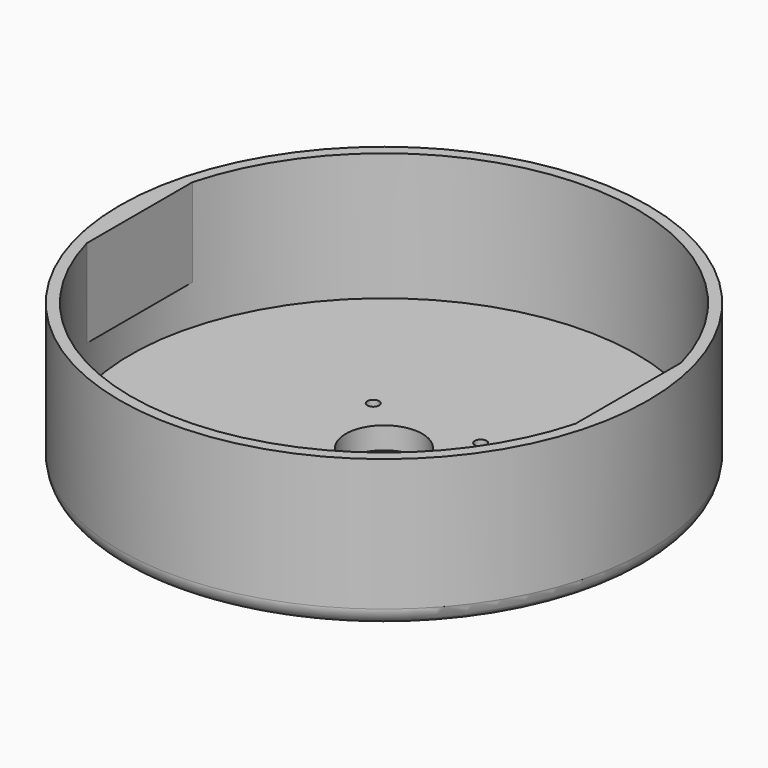
from build123d import *

# Parameters (mm, degrees)
F0_R      = 76.2
F1_DEPTH  = 43.18
F2_R      = 73.025
F3_DEPTH  = 36.83
F4_R      = 11.049
F5_DEPTH  = 25.4
F6_R      = 1.6999966
F7_DEPTH  = 43.181
F8_R      = 5.08
F10_DEPTH = 25.4


with BuildPart() as f1:
    # F0 (on Top) → F1 (new body)
    with BuildSketch(Plane.XY):
        Circle(F0_R)
    extrude(amount=F1_DEPTH)

    # F2 (on face) → F3 (cut)
    with BuildSketch(Plane.XY.offset(43.18)):
        Circle(F2_R)
    extrude(amount=-F3_DEPTH, mode=Mode.SUBTRACT)

    # F4 (on face) → F5 (cut)
    with BuildSketch(Plane(origin=(0, 0, 0), x_dir=(1, 0, 0), z_dir=(0, 0, -1))):
        Circle(F4_R)
    extrude(amount=-F5_DEPTH, mode=Mode.SUBTRACT)

    # F6 (on face) → F7 (cut, through all)
    with BuildSketch(Plane(origin=(0, 0, 0), x_dir=(1, 0, 0), z_dir=(0, 0, -1))):
        with Locations((15.499969, 15.499969)):
            Circle(F6_R)
        with Locations((15.499969, -15.499969)):
            Circle(F6_R)
        with Locations((-15.499969, -15.499969)):
            Circle(F6_R)
        with Locations((-15.499969, 15.499969)):
            Circle(F6_R)
    extrude(amount=-F7_DEPTH, mode=Mode.SUBTRACT)

    # F8
    f8_edges = [f1.edges().sort_by_distance(p)[0] for p in [
        (-76.2, 0, 0),
    ]]
    fillet(f8_edges, radius=F8_R)

    # F9 (on face) → F10 (join)
    with BuildSketch(Plane.XY.offset(43.18)):
        with BuildLine():
            Line((-70.496440513, 0), (-70.496440513, 19.05))
            ThreePointArc((-70.496440513, 19.05), (-73.025, 0), (-70.496440513, -19.05))
            Line((-70.496440513, -19.05), (-70.496440513, 0))
        make_face()
        with BuildLine():
            ThreePointArc((73.025, 0), (72.3901001293, 9.6085393411), (70.496440513, 19.05))
            Line((70.496440513, 19.05), (70.496440513, 0))
            Line((70.496440513, 0), (70.496440513, -19.05))
            ThreePointArc((70.496440513, -19.05), (72.3901001293, -9.6085393411), (73.025, 0))
        make_face()
    extrude(amount=-F10_DEPTH)


solid = f1.part
